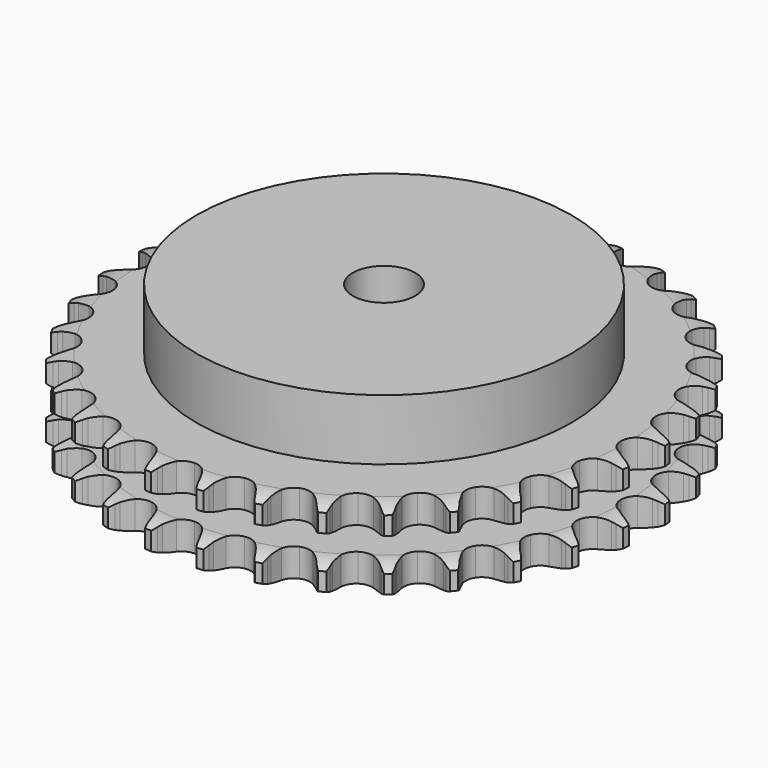
from build123d import *

# Parameters (mm, degrees)
PAD_DEPTH         = 25.5
SKETCH001_R       = 60
PAD001_DEPTH      = 45
SKETCH002_R       = 10
POCKET_DEPTH      = 0.001
POCKET_DEPTH_BACK = 45.001


with BuildPart() as part:
    # Sprocket → Pad (new body)
    with BuildSketch(Plane.XY):
        with BuildLine():
            ThreePointArc((-8.426127, 85.551899), (-7.24963, 84.138481), (-6.414523, 82.500039))
            Line((-6.414523, 82.500039), (-5.91891, 81.183227))
            ThreePointArc((-5.91891, 81.183227), (-5.133513, 79.474671), (-4.114525, 77.894268))
            ThreePointArc((-4.114525, 77.894268), (-2.300038, 76.380146), (0, 75.837234))
            ThreePointArc((0, 75.837234), (2.300038, 76.380146), (4.114525, 77.894268))
            ThreePointArc((4.114525, 77.894268), (5.133513, 79.474671), (5.91891, 81.183227))
            Line((5.91891, 81.183227), (6.414523, 82.500039))
            ThreePointArc((6.414523, 82.500039), (7.24963, 84.138481), (8.426127, 85.551899))
            ThreePointArc((8.426127, 85.551899), (9.304273, 83.936116), (9.80369, 82.166235))
            Line((9.80369, 82.166235), (10.032882, 80.778036))
            ThreePointArc((10.032882, 80.778036), (10.469865, 78.949086), (11.160952, 77.200255))
            ThreePointArc((11.160952, 77.200255), (12.645184, 75.361238), (14.79511, 74.380043))
            ThreePointArc((14.79511, 74.380043), (17.156871, 74.463807), (19.231884, 75.594847))
            Line((19.231884, 75.594847), (21.643242, 78.468592))
            ThreePointArc((21.643242, 78.468592), (21.99889, 79.075855), (22.386229, 79.663412))
            ThreePointArc((22.386229, 79.663412), (23.524933, 81.107451), (24.954568, 82.264187))
            ThreePointArc((24.954568, 82.264187), (25.500618, 80.508133), (25.645152, 78.674829))
            Line((25.645152, 78.674829), (25.599116, 77.26859))
            ThreePointArc((25.599116, 77.26859), (25.670892, 75.389532), (26.00752, 73.53948))
            ThreePointArc((26.00752, 73.53948), (27.104458, 71.44624), (29.021653, 70.064469))
            ThreePointArc((29.021653, 70.064469), (31.354375, 69.685867), (33.610171, 70.390359))
            Line((33.610171, 70.390359), (36.535836, 72.738453))
            ThreePointArc((36.535836, 72.738453), (37.003122, 73.264664), (37.497644, 73.765366))
            ThreePointArc((37.497644, 73.765366), (38.896187, 74.959507), (40.52402, 75.815109))
            ThreePointArc((40.52402, 75.815109), (40.716989, 73.986268), (40.501085, 72.159993))
            Line((40.501085, 72.159993), (40.181591, 70.789756))
            ThreePointArc((40.181591, 70.789756), (39.885401, 68.932801), (39.854634, 67.052624))
            ThreePointArc((39.854634, 67.052624), (40.522123, 64.785603), (42.13291, 63.056356))
            ThreePointArc((42.13291, 63.056356), (44.346947, 62.229937), (46.696839, 62.480809))
            Line((46.696839, 62.480809), (50.024378, 64.213016))
            ThreePointArc((50.024378, 64.213016), (50.585344, 64.637953), (51.168047, 65.032557))
            ThreePointArc((51.168047, 65.032557), (52.772682, 65.930912), (54.536157, 66.452499))
            ThreePointArc((54.536157, 66.452499), (54.368628, 64.621153), (53.800584, 62.872089))
            Line((53.800584, 62.872089), (53.219909, 61.590511))
            ThreePointArc((53.219909, 61.590511), (52.567137, 59.827021), (52.170156, 57.988974))
            ThreePointArc((52.170156, 57.988974), (52.382546, 55.635292), (53.625023, 53.625023))
            ThreePointArc((53.625023, 53.625023), (55.635292, 52.382546), (57.988974, 52.170156))
            Line((57.988974, 52.170156), (61.590511, 53.219909))
            ThreePointArc((61.590511, 53.219909), (62.2236, 53.527242), (62.872089, 53.800584))
            ThreePointArc((62.872089, 53.800584), (64.621153, 54.368628), (66.452499, 54.536157))
            ThreePointArc((66.452499, 54.536157), (65.930912, 52.772682), (65.032557, 51.168047))
            Line((65.032557, 51.168047), (64.213016, 50.024378))
            ThreePointArc((64.213016, 50.024378), (63.228747, 48.422122), (62.480809, 46.696839))
            ThreePointArc((62.480809, 46.696839), (62.229937, 44.346947), (63.056356, 42.13291))
            ThreePointArc((63.056356, 42.13291), (64.785603, 40.522123), (67.052624, 39.854634))
            Line((67.052624, 39.854634), (70.789756, 40.181591))
            ThreePointArc((70.789756, 40.181591), (71.470638, 40.359509), (72.159993, 40.501085))
            ThreePointArc((72.159993, 40.501085), (73.986268, 40.716989), (75.815109, 40.52402))
            ThreePointArc((75.815109, 40.52402), (74.959507, 38.896187), (73.765366, 37.497644))
            Line((73.765366, 37.497644), (72.738453, 36.535836))
            ThreePointArc((72.738453, 36.535836), (71.460511, 35.156388), (70.390359, 33.610171))
            ThreePointArc((70.390359, 33.610171), (69.685867, 31.354375), (70.064469, 29.021653))
            ThreePointArc((70.064469, 29.021653), (71.44624, 27.104458), (73.53948, 26.00752))
            Line((73.53948, 26.00752), (77.26859, 25.599116))
            ThreePointArc((77.26859, 25.599116), (77.971099, 25.640783), (78.674829, 25.645152))
            ThreePointArc((78.674829, 25.645152), (80.508133, 25.500618), (82.264187, 24.954568))
            ThreePointArc((82.264187, 24.954568), (81.107451, 23.524933), (79.663412, 22.386229))
            Line((79.663412, 22.386229), (78.468592, 21.643242))
            ThreePointArc((78.468592, 21.643242), (76.946089, 20.539614), (75.594847, 19.231884))
            ThreePointArc((75.594847, 19.231884), (74.463807, 17.156871), (74.380043, 14.79511))
            ThreePointArc((74.380043, 14.79511), (75.361238, 12.645184), (77.200255, 11.160952))
            Line((77.200255, 11.160952), (80.778036, 10.032882))
            ThreePointArc((80.778036, 10.032882), (81.475175, 9.936695), (82.166235, 9.80369))
            ThreePointArc((82.166235, 9.80369), (83.936116, 9.304273), (85.551899, 8.426127))
            ThreePointArc((85.551899, 8.426127), (84.138481, 7.24963), (82.500039, 6.414523))
            Line((82.500039, 6.414523), (81.183227, 5.91891))
            ThreePointArc((81.183227, 5.91891), (79.474671, 5.133513), (77.894268, 4.114525))
            ThreePointArc((77.894268, 4.114525), (76.380146, 2.300038), (75.837234, 0))
            ThreePointArc((75.837234, 0), (76.380146, -2.300038), (77.894268, -4.114525))
            Line((77.894268, -4.114525), (81.183227, -5.91891))
            ThreePointArc((81.183227, -5.91891), (81.848205, -6.149254), (82.500039, -6.414523))
            ThreePointArc((82.500039, -6.414523), (84.138481, -7.24963), (85.551899, -8.426127))
            ThreePointArc((85.551899, -8.426127), (83.936116, -9.304273), (82.166235, -9.80369))
            Line((82.166235, -9.80369), (80.778036, -10.032882))
            ThreePointArc((80.778036, -10.032882), (78.949086, -10.469865), (77.200255, -11.160952))
            ThreePointArc((77.200255, -11.160952), (75.361238, -12.645184), (74.380043, -14.79511))
            ThreePointArc((74.380043, -14.79511), (74.463807, -17.156871), (75.594847, -19.231884))
            Line((75.594847, -19.231884), (78.468592, -21.643242))
            ThreePointArc((78.468592, -21.643242), (79.075855, -21.99889), (79.663412, -22.386229))
            ThreePointArc((79.663412, -22.386229), (81.107451, -23.524933), (82.264187, -24.954568))
            ThreePointArc((82.264187, -24.954568), (80.508133, -25.500618), (78.674829, -25.645152))
            Line((78.674829, -25.645152), (77.26859, -25.599116))
            ThreePointArc((77.26859, -25.599116), (75.389532, -25.670892), (73.53948, -26.00752))
            ThreePointArc((73.53948, -26.00752), (71.44624, -27.104458), (70.064469, -29.021653))
            ThreePointArc((70.064469, -29.021653), (69.685867, -31.354375), (70.390359, -33.610171))
            Line((70.390359, -33.610171), (72.738453, -36.535836))
            ThreePointArc((72.738453, -36.535836), (73.264664, -37.003122), (73.765366, -37.497644))
            ThreePointArc((73.765366, -37.497644), (74.959507, -38.896187), (75.815109, -40.52402))
            ThreePointArc((75.815109, -40.52402), (73.986268, -40.716989), (72.159993, -40.501085))
            Line((72.159993, -40.501085), (70.789756, -40.181591))
            ThreePointArc((70.789756, -40.181591), (68.932801, -39.885401), (67.052624, -39.854634))
            ThreePointArc((67.052624, -39.854634), (64.785603, -40.522123), (63.056356, -42.13291))
            ThreePointArc((63.056356, -42.13291), (62.229937, -44.346947), (62.480809, -46.696839))
            Line((62.480809, -46.696839), (64.213016, -50.024378))
            ThreePointArc((64.213016, -50.024378), (64.637953, -50.585344), (65.032557, -51.168047))
            ThreePointArc((65.032557, -51.168047), (65.930912, -52.772682), (66.452499, -54.536157))
            ThreePointArc((66.452499, -54.536157), (64.621153, -54.368628), (62.872089, -53.800584))
            Line((62.872089, -53.800584), (61.590511, -53.219909))
            ThreePointArc((61.590511, -53.219909), (59.827021, -52.567137), (57.988974, -52.170156))
            ThreePointArc((57.988974, -52.170156), (55.635292, -52.382546), (53.625023, -53.625023))
            ThreePointArc((53.625023, -53.625023), (52.382546, -55.635292), (52.170156, -57.988974))
            Line((52.170156, -57.988974), (53.219909, -61.590511))
            ThreePointArc((53.219909, -61.590511), (53.527242, -62.2236), (53.800584, -62.872089))
            ThreePointArc((53.800584, -62.872089), (54.368628, -64.621153), (54.536157, -66.452499))
            ThreePointArc((54.536157, -66.452499), (52.772682, -65.930912), (51.168047, -65.032557))
            Line((51.168047, -65.032557), (50.024378, -64.213016))
            ThreePointArc((50.024378, -64.213016), (48.422122, -63.228747), (46.696839, -62.480809))
            ThreePointArc((46.696839, -62.480809), (44.346947, -62.229937), (42.13291, -63.056356))
            ThreePointArc((42.13291, -63.056356), (40.522123, -64.785603), (39.854634, -67.052624))
            Line((39.854634, -67.052624), (40.181591, -70.789756))
            ThreePointArc((40.181591, -70.789756), (40.359509, -71.470638), (40.501085, -72.159993))
            ThreePointArc((40.501085, -72.159993), (40.716989, -73.986268), (40.52402, -75.815109))
            ThreePointArc((40.52402, -75.815109), (38.896187, -74.959507), (37.497644, -73.765366))
            Line((37.497644, -73.765366), (36.535836, -72.738453))
            ThreePointArc((36.535836, -72.738453), (35.156388, -71.460511), (33.610171, -70.390359))
            ThreePointArc((33.610171, -70.390359), (31.354375, -69.685867), (29.021653, -70.064469))
            ThreePointArc((29.021653, -70.064469), (27.104458, -71.44624), (26.00752, -73.53948))
            Line((26.00752, -73.53948), (25.599116, -77.26859))
            ThreePointArc((25.599116, -77.26859), (25.640783, -77.971099), (25.645152, -78.674829))
            ThreePointArc((25.645152, -78.674829), (25.500618, -80.508133), (24.954568, -82.264187))
            ThreePointArc((24.954568, -82.264187), (23.524933, -81.107451), (22.386229, -79.663412))
            Line((22.386229, -79.663412), (21.643242, -78.468592))
            ThreePointArc((21.643242, -78.468592), (20.539614, -76.946089), (19.231884, -75.594847))
            ThreePointArc((19.231884, -75.594847), (17.156871, -74.463807), (14.79511, -74.380043))
            ThreePointArc((14.79511, -74.380043), (12.645184, -75.361238), (11.160952, -77.200255))
            Line((11.160952, -77.200255), (10.032882, -80.778036))
            ThreePointArc((10.032882, -80.778036), (9.936695, -81.475175), (9.80369, -82.166235))
            ThreePointArc((9.80369, -82.166235), (9.304273, -83.936116), (8.426127, -85.551899))
            ThreePointArc((8.426127, -85.551899), (7.24963, -84.138481), (6.414523, -82.500039))
            Line((6.414523, -82.500039), (5.91891, -81.183227))
            ThreePointArc((5.91891, -81.183227), (5.133513, -79.474671), (4.114525, -77.894268))
            ThreePointArc((4.114525, -77.894268), (2.300038, -76.380146), (0, -75.837234))
            ThreePointArc((0, -75.837234), (-2.300038, -76.380146), (-4.114525, -77.894268))
            Line((-4.114525, -77.894268), (-5.91891, -81.183227))
            ThreePointArc((-5.91891, -81.183227), (-6.149254, -81.848205), (-6.414523, -82.500039))
            ThreePointArc((-6.414523, -82.500039), (-7.24963, -84.138481), (-8.426127, -85.551899))
            ThreePointArc((-8.426127, -85.551899), (-9.304273, -83.936116), (-9.80369, -82.166235))
            Line((-9.80369, -82.166235), (-10.032882, -80.778036))
            ThreePointArc((-10.032882, -80.778036), (-10.469865, -78.949086), (-11.160952, -77.200255))
            ThreePointArc((-11.160952, -77.200255), (-12.645184, -75.361238), (-14.79511, -74.380043))
            ThreePointArc((-14.79511, -74.380043), (-17.156871, -74.463807), (-19.231884, -75.594847))
            Line((-19.231884, -75.594847), (-21.643242, -78.468592))
            ThreePointArc((-21.643242, -78.468592), (-21.99889, -79.075855), (-22.386229, -79.663412))
            ThreePointArc((-22.386229, -79.663412), (-23.524933, -81.107451), (-24.954568, -82.264187))
            ThreePointArc((-24.954568, -82.264187), (-25.500618, -80.508133), (-25.645152, -78.674829))
            Line((-25.645152, -78.674829), (-25.599116, -77.26859))
            ThreePointArc((-25.599116, -77.26859), (-25.670892, -75.389532), (-26.00752, -73.53948))
            ThreePointArc((-26.00752, -73.53948), (-27.104458, -71.44624), (-29.021653, -70.064469))
            ThreePointArc((-29.021653, -70.064469), (-31.354375, -69.685867), (-33.610171, -70.390359))
            Line((-33.610171, -70.390359), (-36.535836, -72.738453))
            ThreePointArc((-36.535836, -72.738453), (-37.003122, -73.264664), (-37.497644, -73.765366))
            ThreePointArc((-37.497644, -73.765366), (-38.896187, -74.959507), (-40.52402, -75.815109))
            ThreePointArc((-40.52402, -75.815109), (-40.716989, -73.986268), (-40.501085, -72.159993))
            Line((-40.501085, -72.159993), (-40.181591, -70.789756))
            ThreePointArc((-40.181591, -70.789756), (-39.885401, -68.932801), (-39.854634, -67.052624))
            ThreePointArc((-39.854634, -67.052624), (-40.522123, -64.785603), (-42.13291, -63.056356))
            ThreePointArc((-42.13291, -63.056356), (-44.346947, -62.229937), (-46.696839, -62.480809))
            Line((-46.696839, -62.480809), (-50.024378, -64.213016))
            ThreePointArc((-50.024378, -64.213016), (-50.585344, -64.637953), (-51.168047, -65.032557))
            ThreePointArc((-51.168047, -65.032557), (-52.772682, -65.930912), (-54.536157, -66.452499))
            ThreePointArc((-54.536157, -66.452499), (-54.368628, -64.621153), (-53.800584, -62.872089))
            Line((-53.800584, -62.872089), (-53.219909, -61.590511))
            ThreePointArc((-53.219909, -61.590511), (-52.567137, -59.827021), (-52.170156, -57.988974))
            ThreePointArc((-52.170156, -57.988974), (-52.382546, -55.635292), (-53.625023, -53.625023))
            ThreePointArc((-53.625023, -53.625023), (-55.635292, -52.382546), (-57.988974, -52.170156))
            Line((-57.988974, -52.170156), (-61.590511, -53.219909))
            ThreePointArc((-61.590511, -53.219909), (-62.2236, -53.527242), (-62.872089, -53.800584))
            ThreePointArc((-62.872089, -53.800584), (-64.621153, -54.368628), (-66.452499, -54.536157))
            ThreePointArc((-66.452499, -54.536157), (-65.930912, -52.772682), (-65.032557, -51.168047))
            Line((-65.032557, -51.168047), (-64.213016, -50.024378))
            ThreePointArc((-64.213016, -50.024378), (-63.228747, -48.422122), (-62.480809, -46.696839))
            ThreePointArc((-62.480809, -46.696839), (-62.229937, -44.346947), (-63.056356, -42.13291))
            ThreePointArc((-63.056356, -42.13291), (-64.785603, -40.522123), (-67.052624, -39.854634))
            Line((-67.052624, -39.854634), (-70.789756, -40.181591))
            ThreePointArc((-70.789756, -40.181591), (-71.470638, -40.359509), (-72.159993, -40.501085))
            ThreePointArc((-72.159993, -40.501085), (-73.986268, -40.716989), (-75.815109, -40.52402))
            ThreePointArc((-75.815109, -40.52402), (-74.959507, -38.896187), (-73.765366, -37.497644))
            Line((-73.765366, -37.497644), (-72.738453, -36.535836))
            ThreePointArc((-72.738453, -36.535836), (-71.460511, -35.156388), (-70.390359, -33.610171))
            ThreePointArc((-70.390359, -33.610171), (-69.685867, -31.354375), (-70.064469, -29.021653))
            ThreePointArc((-70.064469, -29.021653), (-71.44624, -27.104458), (-73.53948, -26.00752))
            Line((-73.53948, -26.00752), (-77.26859, -25.599116))
            ThreePointArc((-77.26859, -25.599116), (-77.971099, -25.640783), (-78.674829, -25.645152))
            ThreePointArc((-78.674829, -25.645152), (-80.508133, -25.500618), (-82.264187, -24.954568))
            ThreePointArc((-82.264187, -24.954568), (-81.107451, -23.524933), (-79.663412, -22.386229))
            Line((-79.663412, -22.386229), (-78.468592, -21.643242))
            ThreePointArc((-78.468592, -21.643242), (-76.946089, -20.539614), (-75.594847, -19.231884))
            ThreePointArc((-75.594847, -19.231884), (-74.463807, -17.156871), (-74.380043, -14.79511))
            ThreePointArc((-74.380043, -14.79511), (-75.361238, -12.645184), (-77.200255, -11.160952))
            Line((-77.200255, -11.160952), (-80.778036, -10.032882))
            ThreePointArc((-80.778036, -10.032882), (-81.475175, -9.936695), (-82.166235, -9.80369))
            ThreePointArc((-82.166235, -9.80369), (-83.936116, -9.304273), (-85.551899, -8.426127))
            ThreePointArc((-85.551899, -8.426127), (-84.138481, -7.24963), (-82.500039, -6.414523))
            Line((-82.500039, -6.414523), (-81.183227, -5.91891))
            ThreePointArc((-81.183227, -5.91891), (-79.474671, -5.133513), (-77.894268, -4.114525))
            ThreePointArc((-77.894268, -4.114525), (-76.380146, -2.300038), (-75.837234, 0))
            ThreePointArc((-75.837234, 0), (-76.380146, 2.300038), (-77.894268, 4.114525))
            Line((-77.894268, 4.114525), (-81.183227, 5.91891))
            ThreePointArc((-81.183227, 5.91891), (-81.848205, 6.149254), (-82.500039, 6.414523))
            ThreePointArc((-82.500039, 6.414523), (-84.138481, 7.24963), (-85.551899, 8.426127))
            ThreePointArc((-85.551899, 8.426127), (-83.936116, 9.304273), (-82.166235, 9.80369))
            Line((-82.166235, 9.80369), (-80.778036, 10.032882))
            ThreePointArc((-80.778036, 10.032882), (-78.949086, 10.469865), (-77.200255, 11.160952))
            ThreePointArc((-77.200255, 11.160952), (-75.361238, 12.645184), (-74.380043, 14.79511))
            ThreePointArc((-74.380043, 14.79511), (-74.463807, 17.156871), (-75.594847, 19.231884))
            Line((-75.594847, 19.231884), (-78.468592, 21.643242))
            ThreePointArc((-78.468592, 21.643242), (-79.075855, 21.99889), (-79.663412, 22.386229))
            ThreePointArc((-79.663412, 22.386229), (-81.107451, 23.524933), (-82.264187, 24.954568))
            ThreePointArc((-82.264187, 24.954568), (-80.508133, 25.500618), (-78.674829, 25.645152))
            Line((-78.674829, 25.645152), (-77.26859, 25.599116))
            ThreePointArc((-77.26859, 25.599116), (-75.389532, 25.670892), (-73.53948, 26.00752))
            ThreePointArc((-73.53948, 26.00752), (-71.44624, 27.104458), (-70.064469, 29.021653))
            ThreePointArc((-70.064469, 29.021653), (-69.685867, 31.354375), (-70.390359, 33.610171))
            Line((-70.390359, 33.610171), (-72.738453, 36.535836))
            ThreePointArc((-72.738453, 36.535836), (-73.264664, 37.003122), (-73.765366, 37.497644))
            ThreePointArc((-73.765366, 37.497644), (-74.959507, 38.896187), (-75.815109, 40.52402))
            ThreePointArc((-75.815109, 40.52402), (-73.986268, 40.716989), (-72.159993, 40.501085))
            Line((-72.159993, 40.501085), (-70.789756, 40.181591))
            ThreePointArc((-70.789756, 40.181591), (-68.932801, 39.885401), (-67.052624, 39.854634))
            ThreePointArc((-67.052624, 39.854634), (-64.785603, 40.522123), (-63.056356, 42.13291))
            ThreePointArc((-63.056356, 42.13291), (-62.229937, 44.346947), (-62.480809, 46.696839))
            Line((-62.480809, 46.696839), (-64.213016, 50.024378))
            ThreePointArc((-64.213016, 50.024378), (-64.637953, 50.585344), (-65.032557, 51.168047))
            ThreePointArc((-65.032557, 51.168047), (-65.930912, 52.772682), (-66.452499, 54.536157))
            ThreePointArc((-66.452499, 54.536157), (-64.621153, 54.368628), (-62.872089, 53.800584))
            Line((-62.872089, 53.800584), (-61.590511, 53.219909))
            ThreePointArc((-61.590511, 53.219909), (-59.827021, 52.567137), (-57.988974, 52.170156))
            ThreePointArc((-57.988974, 52.170156), (-55.635292, 52.382546), (-53.625023, 53.625023))
            ThreePointArc((-53.625023, 53.625023), (-52.382546, 55.635292), (-52.170156, 57.988974))
            Line((-52.170156, 57.988974), (-53.219909, 61.590511))
            ThreePointArc((-53.219909, 61.590511), (-53.527242, 62.2236), (-53.800584, 62.872089))
            ThreePointArc((-53.800584, 62.872089), (-54.368628, 64.621153), (-54.536157, 66.452499))
            ThreePointArc((-54.536157, 66.452499), (-52.772682, 65.930912), (-51.168047, 65.032557))
            Line((-51.168047, 65.032557), (-50.024378, 64.213016))
            ThreePointArc((-50.024378, 64.213016), (-48.422122, 63.228747), (-46.696839, 62.480809))
            ThreePointArc((-46.696839, 62.480809), (-44.346947, 62.229937), (-42.13291, 63.056356))
            ThreePointArc((-42.13291, 63.056356), (-40.522123, 64.785603), (-39.854634, 67.052624))
            Line((-39.854634, 67.052624), (-40.181591, 70.789756))
            ThreePointArc((-40.181591, 70.789756), (-40.359509, 71.470638), (-40.501085, 72.159993))
            ThreePointArc((-40.501085, 72.159993), (-40.716989, 73.986268), (-40.52402, 75.815109))
            ThreePointArc((-40.52402, 75.815109), (-38.896187, 74.959507), (-37.497644, 73.765366))
            Line((-37.497644, 73.765366), (-36.535836, 72.738453))
            ThreePointArc((-36.535836, 72.738453), (-35.156388, 71.460511), (-33.610171, 70.390359))
            ThreePointArc((-33.610171, 70.390359), (-31.354375, 69.685867), (-29.021653, 70.064469))
            ThreePointArc((-29.021653, 70.064469), (-27.104458, 71.44624), (-26.00752, 73.53948))
            Line((-26.00752, 73.53948), (-25.599116, 77.26859))
            ThreePointArc((-25.599116, 77.26859), (-25.640783, 77.971099), (-25.645152, 78.674829))
            ThreePointArc((-25.645152, 78.674829), (-25.500618, 80.508133), (-24.954568, 82.264187))
            ThreePointArc((-24.954568, 82.264187), (-23.524933, 81.107451), (-22.386229, 79.663412))
            Line((-22.386229, 79.663412), (-21.643242, 78.468592))
            ThreePointArc((-21.643242, 78.468592), (-20.539614, 76.946089), (-19.231884, 75.594847))
            ThreePointArc((-19.231884, 75.594847), (-17.156871, 74.463807), (-14.79511, 74.380043))
            ThreePointArc((-14.79511, 74.380043), (-12.645184, 75.361238), (-11.160952, 77.200255))
            Line((-11.160952, 77.200255), (-10.032882, 80.778036))
            ThreePointArc((-10.032882, 80.778036), (-9.936695, 81.475175), (-9.80369, 82.166235))
            ThreePointArc((-9.80369, 82.166235), (-9.304273, 83.936116), (-8.426127, 85.551899))
        make_face()
    extrude(amount=PAD_DEPTH)

    # Sketch → Groove (revolve, cut)
    with BuildSketch(Plane.XZ):
        with BuildLine():
            ThreePointArc((77.475762, 0), (81.05347, 0.405129), (84.45, 1.6))
            Line((84.45, 1.6), (84.45, 7.4))
            ThreePointArc((84.45, 7.4), (81.05347, 8.594871), (77.475762, 9))
            Line((60, 9), (77.475762, 9))
            Line((60, 16.5), (60, 9))
            Line((77.475762, 16.5), (60, 16.5))
            ThreePointArc((77.475762, 16.5), (81.05347, 16.905129), (84.45, 18.1))
            Line((84.45, 18.1), (84.45, 23.9))
            ThreePointArc((84.45, 23.9), (81.05347, 25.094871), (77.475762, 25.5))
            Line((77.475762, 25.5), (87.475762, 25.5))
            Line((87.475762, 25.5), (87.475762, 0))
            Line((77.475762, 0), (87.475762, 0))
        make_face()
    revolve(axis=Axis((0, 0, 0), (0, 0, 1)), mode=Mode.SUBTRACT)

    # Sketch001 → Pad001 (join)
    with BuildSketch(Plane.XY):
        Circle(SKETCH001_R)
    extrude(amount=PAD001_DEPTH)

    # Sketch002 → Pocket (cut, two sides)
    with BuildSketch(Plane.XY) as pocket_sk:
        Circle(SKETCH002_R)
    extrude(amount=-POCKET_DEPTH, mode=Mode.SUBTRACT)
    extrude(pocket_sk.sketch, amount=POCKET_DEPTH_BACK, mode=Mode.SUBTRACT)


solid = part.part
